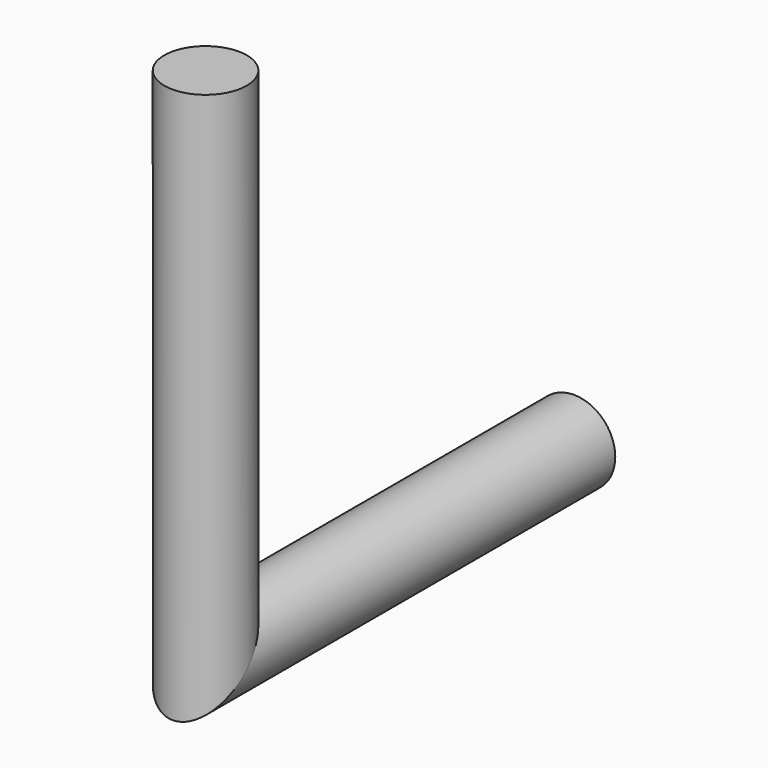
from build123d import *

# Parameters (mm, degrees)
F0_R = 0.889


with BuildPart() as f2:
    # F2: sweep along a path in F1
    with BuildLine(Plane.YZ) as f2_path:
        Line((-9.9292993546, 11.0805211589), (-9.9292993546, 0))
        Line((-9.9292993546, 0), (0, 0))
    # F0 (on Front) → F2 (sweep)
    with BuildSketch(Plane.XZ):
        Circle(F0_R)
    sweep(path=f2_path.line, transition=Transition.RIGHT)


solid = f2.part
